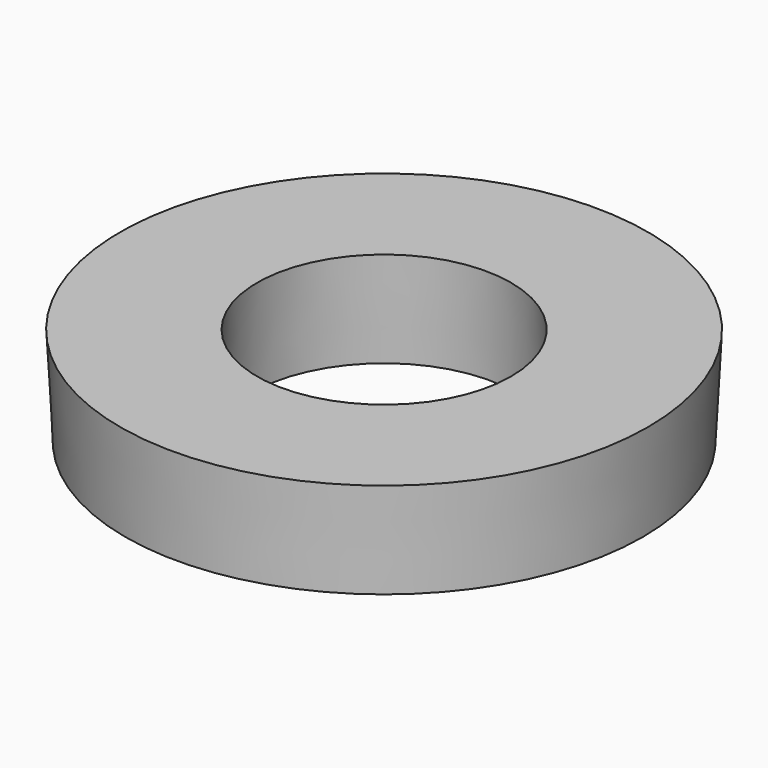
from build123d import *

# Parameters (mm, degrees)
F0_R     = 66.7796317086
F0_R_2   = 34.0934864411
F1_DEPTH = 25.4
F1_TAPER = -3


with BuildPart() as f1:
    # F0 (on Top) → F1 (new body)
    with BuildSketch(Plane.XY):
        Circle(F0_R)
        Circle(F0_R_2, mode=Mode.SUBTRACT)
    extrude(amount=F1_DEPTH, taper=F1_TAPER)


solid = f1.part
